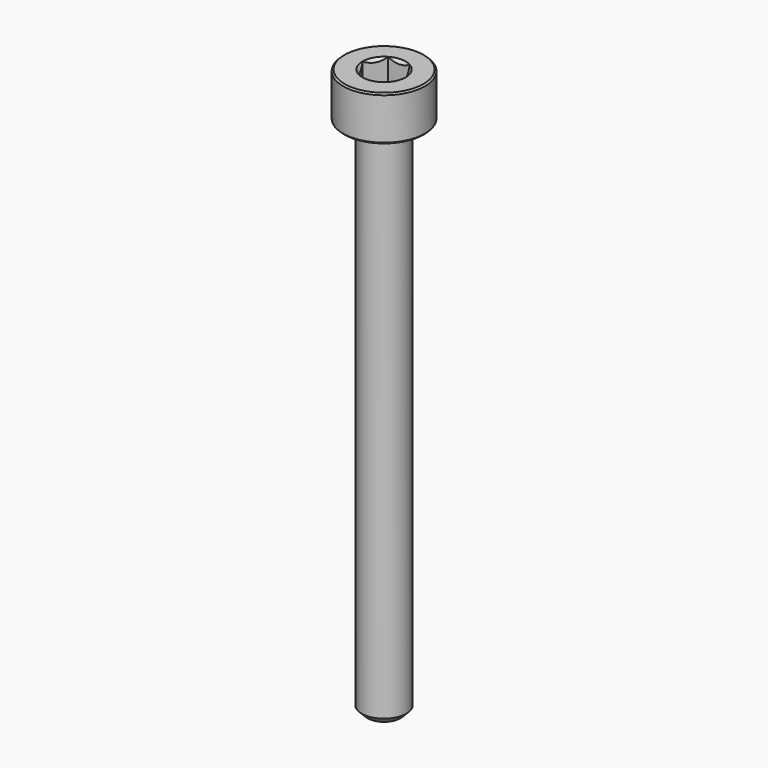
from build123d import *

# Parameters (mm, degrees)
SKETCH001_R     = 3.75
POCKET_DEPTH    = 9.70192
CHAMFER_SIZE    = 0.4
CHAMFER001_SIZE = 0.1


with BuildPart() as pocket:
    # Sketch003 → Revolution001 (revolve)
    with BuildSketch(Plane.XZ):
        Polygon((0, 0.29908), (2.75, 1.3), (2.75, 10), (0, 10), align=None)
    revolve(axis=Axis((0, 0, 0), (0, 0, 1)))

    # Sketch001 → Pocket (cut, through all)
    with BuildSketch(Plane(origin=(0, 0, 10), x_dir=(-1, 0, 0), z_dir=(0, 0, 1))):
        Circle(SKETCH001_R)
        Polygon((-0.721688, 1.25), (0.721688, 1.25), (1.443376, 0), (0.721688, -1.25), (-0.721688, -1.25), (-1.443376, 0), align=None, mode=Mode.SUBTRACT)
    extrude(amount=-POCKET_DEPTH, mode=Mode.SUBTRACT)


with BuildPart() as chamfer001:
    # Sketch → Revolution (revolve)
    with BuildSketch(Plane.XZ):
        Polygon((1.45, 3), (2.75, 3), (2.75, 0), (1.5, 0), (1.5, -35), (0, -35), (0, 1.549999), align=None)
    revolve(axis=Axis((0, 0, 0), (0, 0, 1)))

    # Cut: cut Pocket
    add(pocket.part, mode=Mode.SUBTRACT)

    # Chamfer
    chamfer_edges = [chamfer001.edges().sort_by_distance(p)[0] for p in [
        (-1.5, 0, -35),
    ]]
    chamfer(chamfer_edges, length=CHAMFER_SIZE)

    # Chamfer001
    chamfer001_edges = [chamfer001.edges().sort_by_distance(p)[0] for p in [
        (-2.75, 0, 0),
        (-2.75, 0, 3),
    ]]
    chamfer(chamfer001_edges, length=CHAMFER001_SIZE)


solid = chamfer001.part
